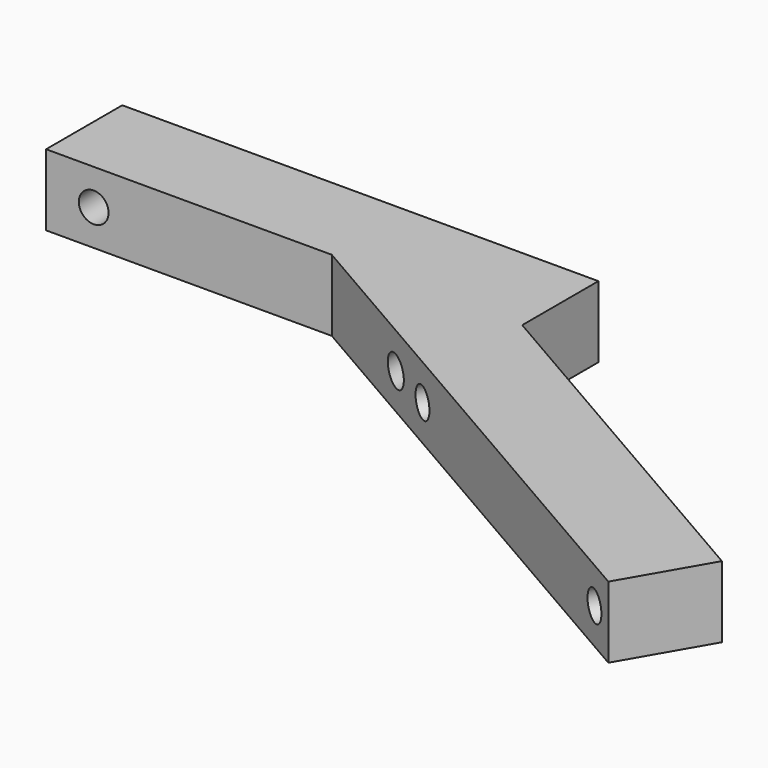
from build123d import *

# Parameters (mm, degrees)
F1_DEPTH   = 6
F4_D       = 2.5
F4_ON_F2_D = 2.5


with BuildPart() as f1:
    # F0 (on Top) → F1 (new body)
    with BuildSketch(Plane.XY):
        Polygon((-16, 0), (0, 0), (0, 8), (-40, 8), (-40, 0), align=None)
        Polygon((31.1769145362, -18), (0, 0), (-16, 0), (27.1769145362, -24.9282032303), align=None)
    extrude(amount=-F1_DEPTH)

    # F4 (through all)
    with Locations(Plane(origin=(0, 0, 0), x_dir=(-0.8660254038, 0.5, 0), z_dir=(0.5, 0.8660254038, 0))):
        with Locations((-33.5, -3), (-2.5, -3)):
            Hole(F4_D / 2)

    # F4 on F2 (through all)
    with Locations(Plane(origin=(0, 8, 0), x_dir=(-1, 0, 0), z_dir=(0, 1, 0))):
        with Locations((6, -3), (36, -3)):
            Hole(F4_ON_F2_D / 2)


solid = f1.part
